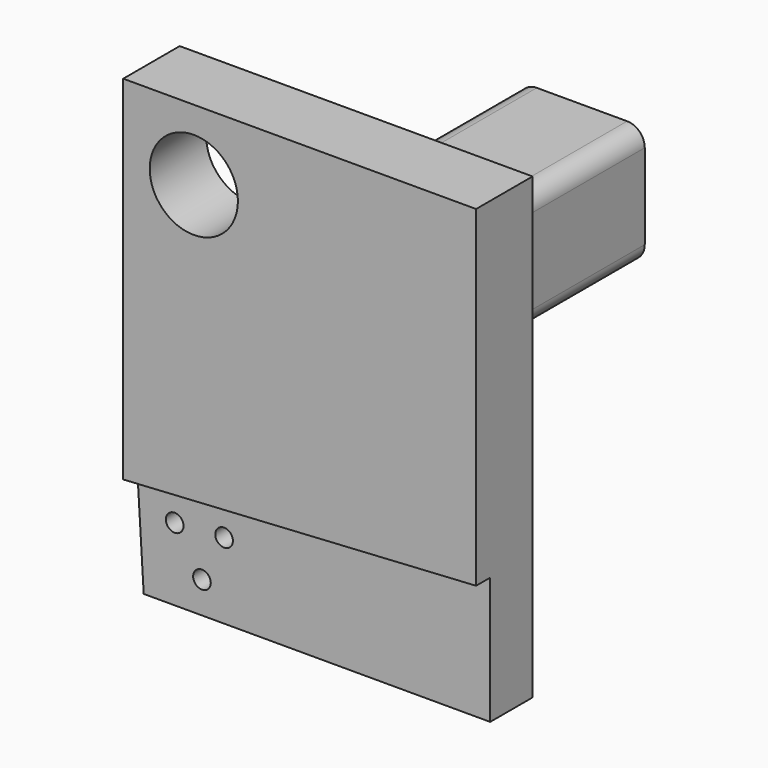
from build123d import *

# Parameters (mm, degrees)
F0_W     = 127
F0_H     = 165.1
F0_R     = 15.875
F1_DEPTH = 25.4
F2_R     = 3.175
F3_DEPTH = 6.35
F4_DEPTH = 25.4
F6_DEPTH = 25.4
F7_W     = 32.5129989862
F7_H     = 30.6838553727
F8_DEPTH = 127


with BuildPart() as f1:
    # F0 (on Front) → F1 (new body)
    with BuildSketch(Plane.XZ):
        Rectangle(F0_W, F0_H)
        with Locations((-38.1, 57.15)):
            Circle(F0_R, mode=Mode.SUBTRACT)
    extrude(amount=-F1_DEPTH)

    # F2 (on face) → F3 (cut)
    with BuildSketch(Plane.XZ):
        Polygon((63.5, -36.83), (-63.5, -44.45), (-63.5, -82.55), (63.5, -82.55), align=None)
        with Locations((-40.2505024661, -71.1942345153)):
            Circle(F2_R, mode=Mode.SUBTRACT)
        with Locations((-50.0621663703, -56.3665694452)):
            Circle(F2_R, mode=Mode.SUBTRACT)
        with Locations((-32.2821663703, -55.2997694452)):
            Circle(F2_R, mode=Mode.SUBTRACT)
        with Locations((-50.0621663703, -56.3665694452)):
            Circle(F2_R)
        with Locations((-32.2821663703, -55.2997694452)):
            Circle(F2_R)
        with Locations((-40.2505024661, -71.1942345153)):
            Circle(F2_R)
    extrude(amount=-F3_DEPTH, mode=Mode.SUBTRACT)

    # F2 (on face) → F4 (cut)
    with BuildSketch(Plane.XZ):
        with Locations((-50.0621663703, -56.3665694452)):
            Circle(F2_R)
        with Locations((-32.2821663703, -55.2997694452)):
            Circle(F2_R)
        with Locations((-40.2505024661, -71.1942345153)):
            Circle(F2_R)
    extrude(amount=-F4_DEPTH, mode=Mode.SUBTRACT)

    # F5 (on face) → F6 (cut)
    with BuildSketch(Plane.XZ.offset(-6.35)):
        Polygon((-61.214, -82.55), (-63.5, -44.45), (-63.5, -82.55), align=None)
    extrude(amount=-F6_DEPTH, mode=Mode.SUBTRACT)

    # F7 (on face) → F8 (join)
    with BuildSketch(Plane.XZ):
        with BuildLine():
            Line((-16.2564994931, 0), (16.2564994931, 0))
            ThreePointArc((16.2564994931, 0), (20.7466275537, 1.8598719395), (22.6064994931, 6.35))
            Line((22.6064994931, 6.35), (22.6064994931, 37.0338553727))
            ThreePointArc((22.6064994931, 37.0338553727), (20.7466275537, 41.5239834332), (16.2564994931, 43.3838553727))
            Line((16.2564994931, 43.3838553727), (-16.2564994931, 43.3838553727))
            ThreePointArc((-16.2564994931, 43.3838553727), (-20.7466275537, 41.5239834332), (-22.6064994931, 37.0338553727))
            Line((-22.6064994931, 37.0338553727), (-22.6064994931, 6.35))
            ThreePointArc((-22.6064994931, 6.35), (-20.7466275537, 1.8598719395), (-16.2564994931, 0))
        make_face()
        with Locations((0, 21.6919276863)):
            Rectangle(F7_W, F7_H, mode=Mode.SUBTRACT)
    extrude(amount=-F8_DEPTH)


solid = f1.part
